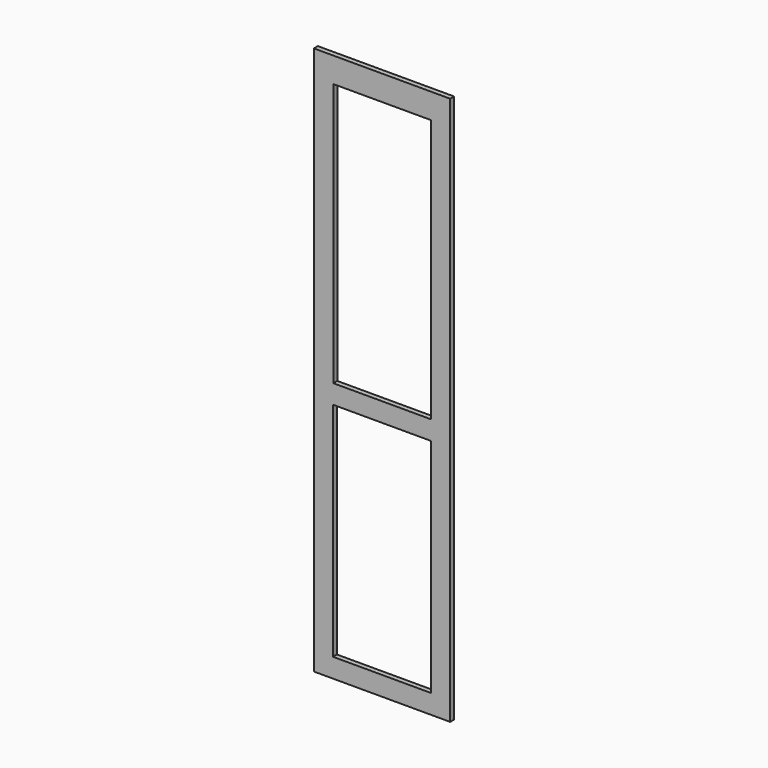
from build123d import *

# Parameters (mm, degrees)
F0_W      = 50.518155098
F0_H      = 63.5085105896
F1_DEPTH  = 18
F2_DEPTH  = 496
F3_DEPTH  = 1996
F4_W      = 317.0488774776
F4_H      = 672.3350584507
F5_DEPTH  = 18
F6_DEPTH  = 66
F7_DEPTH  = 68
F8_DEPTH  = 6
F9_DEPTH  = 282
F10_DEPTH = 44
F11_DEPTH = 147
F12_W     = 357.6997369528
F12_H     = 883.1646442413
F13_DEPTH = 18
F14_DEPTH = 75
F15_DEPTH = 2


with BuildPart() as f1:
    # F0 (on Front) → F1 (new body)
    with BuildSketch(Plane.XZ):
        with Locations((25.259077549, 31.7542552948)):
            Rectangle(F0_W, F0_H)
    extrude(amount=F1_DEPTH)

    # F2 (add): a face of the model
    f2_faces = [f1.faces().sort_by_distance(p)[0] for p in [
        (0, -9, 31.7542552948),
    ]]
    extrude(f2_faces, amount=-F2_DEPTH)

    # F3 (add): a face of the model
    f3_faces = [f1.faces().sort_by_distance(p)[0] for p in [
        (248, -9, 0),
    ]]
    extrude(f3_faces, amount=-F3_DEPTH)

    # F4 (on face) → F5 (cut)
    with BuildSketch(Plane.XZ.offset(18)):
        with Locations((223.6920744181, 688.1462782621)):
            Rectangle(F4_W, F4_H)
    extrude(amount=-F5_DEPTH, mode=Mode.SUBTRACT)

    # F6 (add): a face of the model
    f6_faces = [f1.faces().sort_by_distance(p)[0] for p in [
        (65.1676356792, -9, 688.1462782621),
    ]]
    extrude(f6_faces, amount=F6_DEPTH)

    # F7 (cut): a face of the model
    f7_faces = [f1.faces().sort_by_distance(p)[0] for p in [
        (131.1676356792, -9, 688.1462782621),
    ]]
    extrude(f7_faces, amount=-F7_DEPTH, mode=Mode.SUBTRACT)

    # F8 (add): a face of the model
    f8_faces = [f1.faces().sort_by_distance(p)[0] for p in [
        (63.1676356792, -9, 688.1462782621),
    ]]
    extrude(f8_faces, amount=F8_DEPTH)

    # F9 (cut): a face of the model
    f9_faces = [f1.faces().sort_by_distance(p)[0] for p in [
        (225.6920744181, -9, 351.9787490368),
    ]]
    extrude(f9_faces, amount=-F9_DEPTH, mode=Mode.SUBTRACT)

    # F10 (cut): a face of the model
    f10_faces = [f1.faces().sort_by_distance(p)[0] for p in [
        (382.2165131569, -9, 547.1462782621),
    ]]
    extrude(f10_faces, amount=-F10_DEPTH, mode=Mode.SUBTRACT)

    # F11 (add): a face of the model
    f11_faces = [f1.faces().sort_by_distance(p)[0] for p in [
        (247.6920744181, -9, 1024.3138074875),
    ]]
    extrude(f11_faces, amount=F11_DEPTH)

    # F12 (on face) → F13 (cut)
    with BuildSketch(Plane.XZ.offset(18)):
        with Locations((249.6171072125, 1463.1779193878)):
            Rectangle(F12_W, F12_H)
    extrude(amount=-F13_DEPTH, mode=Mode.SUBTRACT)

    # F14 (cut): a face of the model
    f14_faces = [f1.faces().sort_by_distance(p)[0] for p in [
        (249.6171072125, -9, 1021.5955972672),
    ]]
    extrude(f14_faces, amount=-F14_DEPTH, mode=Mode.SUBTRACT)

    # F15 (add): a face of the model
    f15_faces = [f1.faces().sort_by_distance(p)[0] for p in [
        (428.4669756889, -9, 1425.6779193878),
    ]]
    extrude(f15_faces, amount=F15_DEPTH)


solid = f1.part
